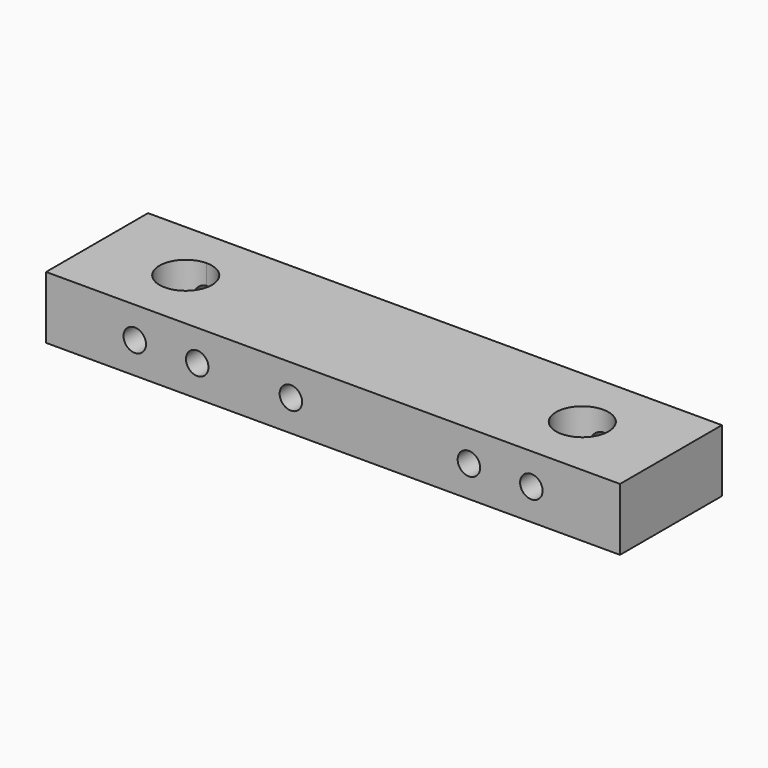
from build123d import *

# Parameters (mm, degrees)
F0_R     = 4.2
F1_DEPTH = 10
F3_D     = 3.6


with BuildPart() as f1:
    # F0 (on Top) → F1 (new body)
    with BuildSketch(Plane.XY):
        Polygon((-31.75, 10.2), (-45.95, 10.2), (-45.95, -10.2), (45.95, -10.2), (45.95, 10.2), align=None)
        with BuildLine():
            ThreePointArc((-27.55, 0), (-34.719848, -2.969848), (-31.75, 4.2))
            ThreePointArc((-31.75, 4.2), (-28.780152, 2.969848), (-27.55, 0))
        make_face(mode=Mode.SUBTRACT)
        with Locations((31.75, 0)):
            Circle(F0_R, mode=Mode.SUBTRACT)
    extrude(amount=F1_DEPTH)

    # F3 (through all)
    with Locations(Plane(origin=(0, 10.2, 0), x_dir=(-1, 0, 0), z_dir=(0, 1, 0))):
        with Locations((-31.75, 5), (-21.75, 5), (21.75, 5), (31.75, 5), (6.75, 5)):
            Hole(F3_D / 2)


solid = f1.part
